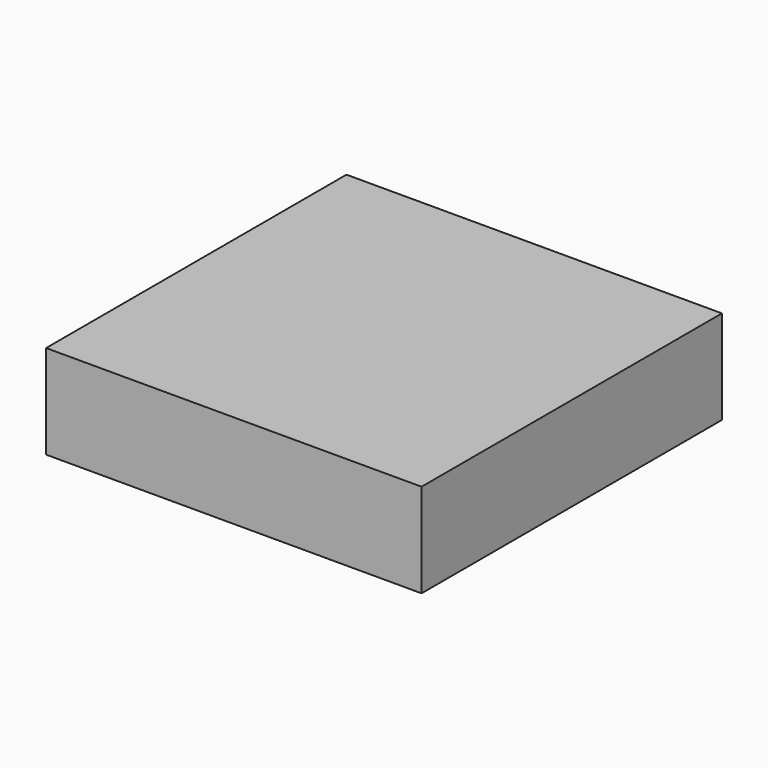
from build123d import *

# Parameters (mm, degrees)
SKETCH_W  = 40
SKETCH_H  = 40
PAD_DEPTH = 10


with BuildPart() as part:
    # Sketch → Pad (new body)
    with BuildSketch(Plane.XY):
        Rectangle(SKETCH_W, SKETCH_H)
    extrude(amount=PAD_DEPTH)


solid = part.part
